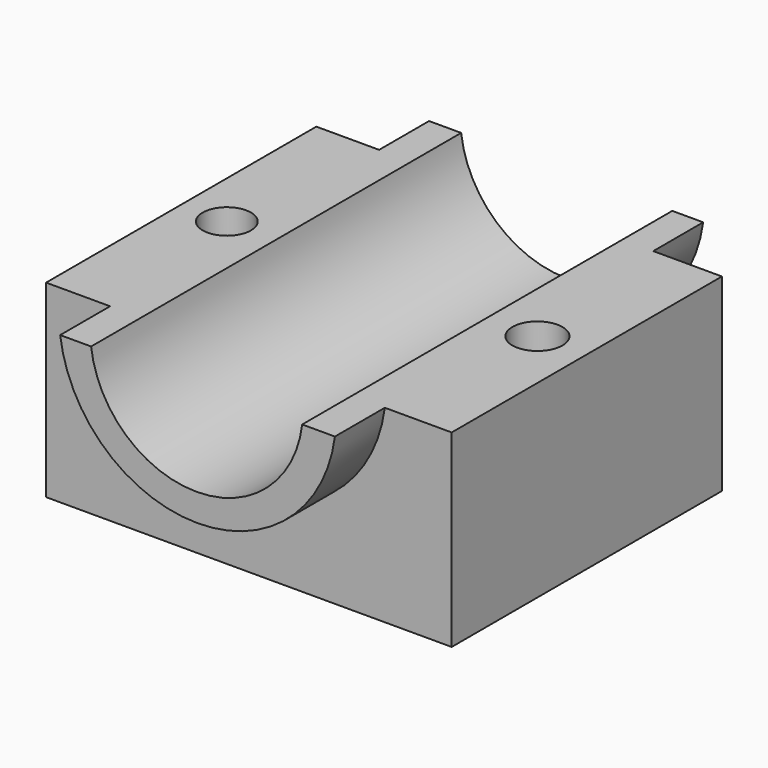
from build123d import *

# Parameters (mm, degrees)
F0_W      = 69.8630958796
F0_H      = 137.5265717506
F1_DEPTH  = 76.89179
F2_DEPTH  = 25.4
F3_DEPTH  = 25.4
F5_DEPTH  = 1676.4
F6_DEPTH  = 25.4
F8_DEPTH  = 25.4
F9_R      = 9.8377312504
F9_R_2    = 10.1939695419
F10_DEPTH = 2514.6


with BuildPart() as f1:
    # F0 (on Top) → F1 (new body)
    with BuildSketch(Plane.XY):
        with Locations((-34.9315479398, 0)):
            Rectangle(F0_W, F0_H)
        with Locations((34.9315479398, 0)):
            Rectangle(F0_W, F0_H)
    extrude(amount=-F1_DEPTH)

    # F2 (add): a face of the model
    f2_faces = [f1.faces().sort_by_distance(p)[0] for p in [
        (-69.8630958796, 0, -38.445895),
    ]]
    extrude(f2_faces, amount=-F2_DEPTH)

    # F3 (add): a face of the model
    f3_faces = [f1.faces().sort_by_distance(p)[0] for p in [
        (-69.8630958796, 0, -38.445895),
    ]]
    extrude(f3_faces, amount=F3_DEPTH)

    # F4 (on face) → F5 (cut)
    with BuildSketch(Plane.XZ.offset(68.7632858753)):
        with BuildLine():
            Line((29.3235648423, 0), (-56.6176436841, 0))
            ThreePointArc((-56.6176436841, 0), (-13.6470394209, -38.1281375917), (29.3235648423, 0))
        make_face()
    extrude(amount=-F5_DEPTH, mode=Mode.SUBTRACT)

    # F4 (on face) → F6 (join)
    with BuildSketch(Plane.XZ.offset(68.7632858753)):
        with BuildLine():
            Line((-56.6176436841, 0), (-69.2062154412, 0))
            ThreePointArc((-69.2062154412, 0), (-13.2839065045, -49.2343121992), (42.6384024322, 0))
            Line((42.6384024322, 0), (29.3235648423, 0))
            ThreePointArc((29.3235648423, 0), (-13.6470394209, -38.1281375917), (-56.6176436841, 0))
        make_face()
    extrude(amount=F6_DEPTH)

    # F7 (on face) → F8 (join)
    with BuildSketch(Plane(origin=(0, 68.7632858753, 0), x_dir=(-1, 0, 0), z_dir=(0, 1, 0))):
        with BuildLine():
            Line((-29.3235648423, 0), (-41.9121347368, 0))
            ThreePointArc((-41.9121347368, 0), (13.8891283423, -48.718451151), (69.6903914213, 0))
            Line((69.6903914213, 0), (56.6176436841, 0))
            ThreePointArc((56.6176436841, 0), (13.6470394209, -38.1281375917), (-29.3235648423, 0))
        make_face()
    extrude(amount=F8_DEPTH)

    # F9 (on face) → F10 (cut)
    with BuildSketch(Plane.XY):
        with Locations((-76.6867026687, 0)):
            Circle(F9_R)
        with Locations((49.7599355876, 0)):
            Circle(F9_R_2)
    extrude(amount=-F10_DEPTH, mode=Mode.SUBTRACT)


solid = f1.part
